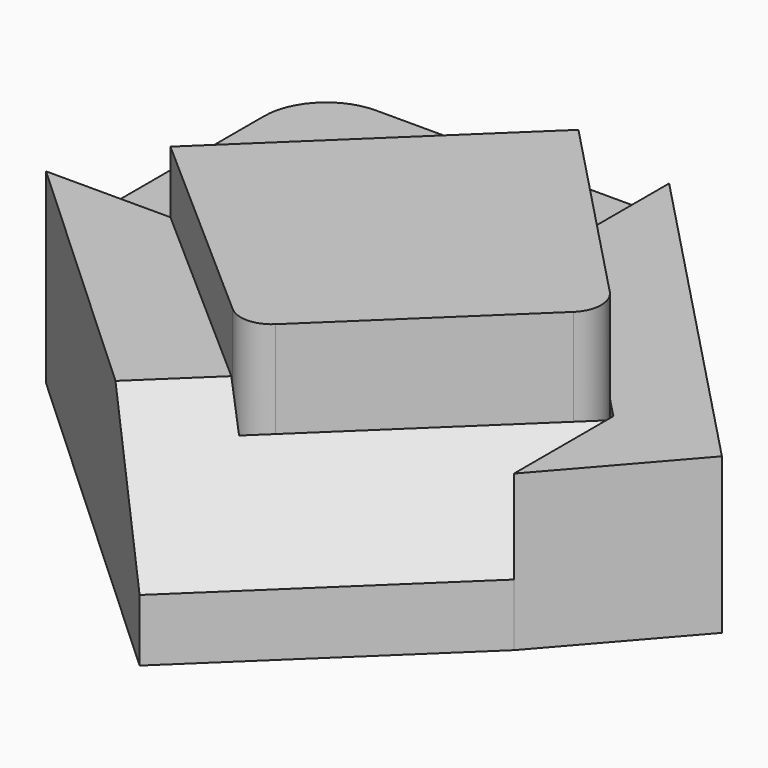
from build123d import *

# Parameters (mm, degrees)
F1_DEPTH = 50.8
F2_DEPTH = 38.1
F3_DEPTH = 25.4
F4_DEPTH = 31.75
F5_DEPTH = 31.75
F6_SIZE2 = 25.4
F6_SIZE  = 25.4
F7_R     = 6.35
F8_R     = 12.7
F9_R     = 6.35


with BuildPart() as f1:
    # F0 (on Top) → F1 (new body)
    with BuildSketch(Plane.XY):
        Polygon((-23.5943623059, 22.5982947493), (-47.1887246119, 0), (0, -41.4610707942), (43.2885550331, 0), (0, 45.1965894986), align=None)
    extrude(amount=F1_DEPTH)

    # F7
    f7_edges = [f1.edges().sort_by_distance(p)[0] for p in [
        (43.288555, 0, 25.4),
    ]]
    fillet(f7_edges, radius=F7_R)

    # F9
    f9_edges = [f1.edges().sort_by_distance(p)[0] for p in [
        (0, -41.461071, 25.4),
    ]]
    fillet(f9_edges, radius=F9_R)


with BuildPart() as f2:
    # F0 (on Top) → F2 (new body)
    with BuildSketch(Plane.XY):
        Polygon((43.2885550331, 0), (0, -41.4610707942), (0, -66.8610707942), (43.2885550331, -25.4), align=None)
        Polygon((0, -41.4610707942), (-47.1887246119, 0), (-72.5887246119, 0), (0, -66.8610707942), align=None)
    extrude(amount=F2_DEPTH)

    # F6
    f6_edges = [f2.edges().sort_by_distance(p)[0] for p in [
        (21.644278, -46.130535, 38.1),
    ]]
    chamfer(f6_edges, length=F6_SIZE, length2=F6_SIZE2)


with BuildPart() as f3:
    # F0 (on Top) → F3 (new body)
    with BuildSketch(Plane.XY):
        Polygon((-72.5887246119, 0), (-47.1887246119, 0), (-47.1887246119, 47.2326283926), (0, 45.1965894986), (0, 68.354524672), (-72.5887246119, 68.354524672), align=None)
    extrude(amount=F3_DEPTH)

    # F8
    f8_edges = [f3.edges().sort_by_distance(p)[0] for p in [
        (-72.588725, 68.354525, 12.7),
    ]]
    fillet(f8_edges, radius=F8_R)


with BuildPart() as f4:
    # F0 (on Top) → F4 (new body)
    with BuildSketch(Plane.XY):
        Polygon((-47.1887246119, 47.2326283926), (-23.5943623059, 22.5982947493), (0, 45.1965894986), align=None)
        Polygon((-47.1887246119, 47.2326283926), (-47.1887246119, 0), (-23.5943623059, 22.5982947493), align=None)
    extrude(amount=F4_DEPTH)


with BuildPart() as f5:
    # F0 (on Top) → F5 (new body)
    with BuildSketch(Plane.XY):
        Polygon((0, 68.354524672), (0, 45.1965894986), (43.2885550331, 0), (43.2885550331, -25.4), (65.4688470049, 0), align=None)
    extrude(amount=F5_DEPTH)


solid = Compound([f1.part, f2.part, f3.part, f4.part, f5.part])
